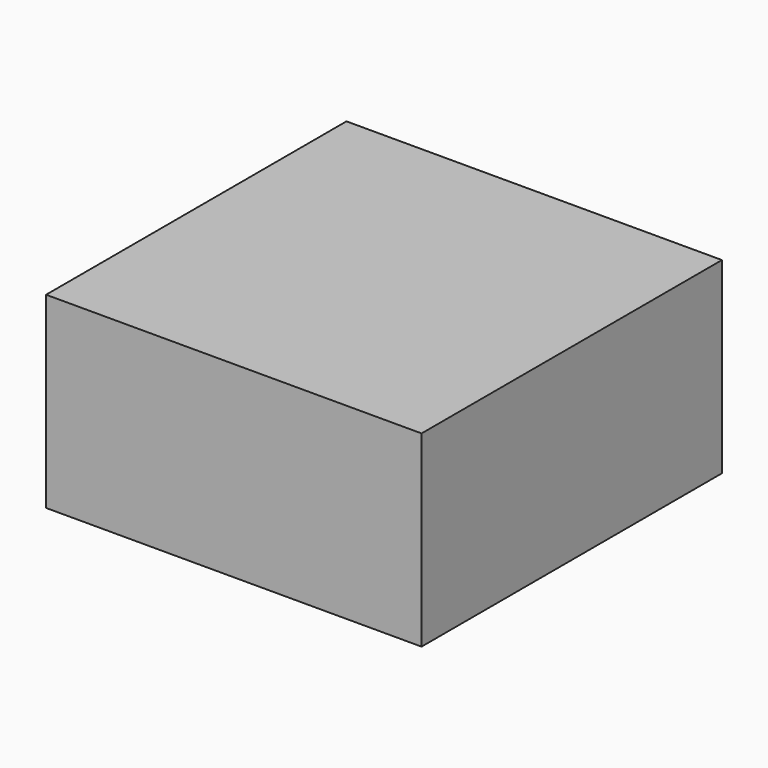
from build123d import *

# Parameters (mm, degrees)
BOX_W     = 20
BOX_H     = 20
BOX_DEPTH = 10


with BuildPart() as part:
    # Box → Box (new body)
    with BuildSketch(Plane.XY):
        with Locations((10, 10)):
            Rectangle(BOX_W, BOX_H)
    extrude(amount=BOX_DEPTH)


solid = part.part
